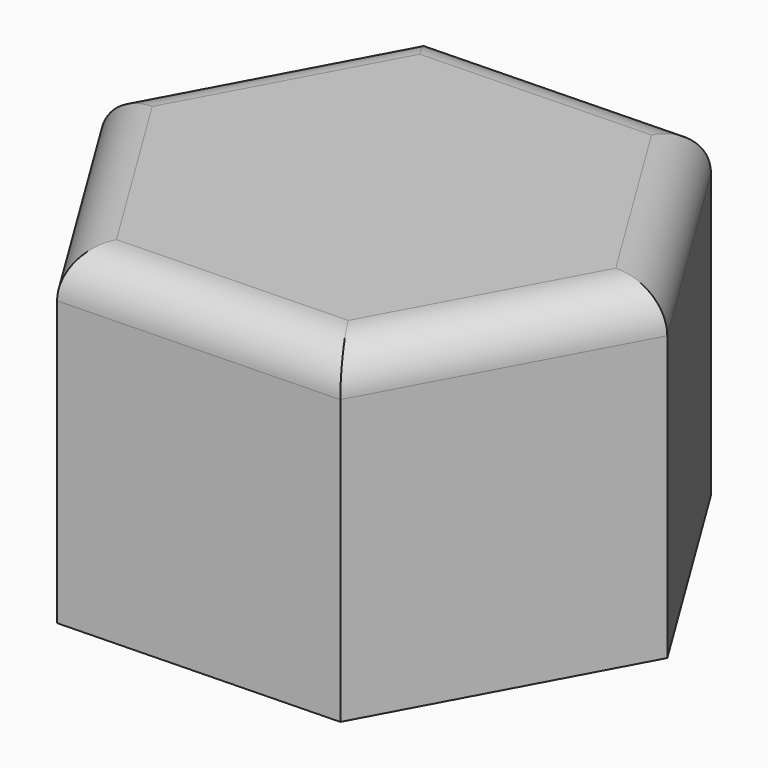
from build123d import *

# Parameters (mm, degrees)
F1_DEPTH = 4
F2_DEPTH = 11
F3_R     = 2
F4_R     = 1


with BuildPart() as f1:
    # F0 (on Top) → F1 (new body)
    with BuildSketch(Plane.XY):
        Polygon((-12.696786, -0.35349), (-6.042262, -11.172484), (6.654524, -10.818994), (12.696786, 0.35349), (6.042262, 11.172484), (-6.654524, 10.818994), align=None)
        Polygon((-4.669021, -8.633283), (-9.811153, -0.273151), (-5.142132, 8.360132), (4.669021, 8.633283), (9.811153, 0.273151), (5.142132, -8.360132), align=None, mode=Mode.SUBTRACT)
        Polygon((-5.142132, 8.360132), (-9.811153, -0.273151), (-4.669021, -8.633283), (5.142132, -8.360132), (9.811153, 0.273151), (4.669021, 8.633283), align=None)
    extrude(amount=F1_DEPTH)

    # F0 (on Top) → F2 (join)
    with BuildSketch(Plane.XY):
        Polygon((-12.696786, -0.35349), (-6.042262, -11.172484), (6.654524, -10.818994), (12.696786, 0.35349), (6.042262, 11.172484), (-6.654524, 10.818994), align=None)
        Polygon((-4.669021, -8.633283), (-9.811153, -0.273151), (-5.142132, 8.360132), (4.669021, 8.633283), (9.811153, 0.273151), (5.142132, -8.360132), align=None, mode=Mode.SUBTRACT)
    extrude(amount=-F2_DEPTH)

    # F3
    f3_edges = [f1.edges().sort_by_distance(p)[0] for p in [
        (-0.306131, 10.995739, 4),
        (-9.675655, 5.232752, 4),
        (-9.369524, -5.762987, 4),
        (0.306131, -10.995739, 4),
        (9.675655, -5.232752, 4),
        (9.369524, 5.762987, 4),
    ]]
    fillet(f3_edges, radius=F3_R)

    # F4
    f4_edges = [f1.edges().sort_by_distance(p)[0] for p in [
        (-0.236556, 8.496708, -11),
        (-7.476643, 4.04349, -11),
        (-7.240087, -4.453217, -11),
        (0.236556, -8.496708, -11),
        (7.476643, -4.04349, -11),
        (7.240087, 4.453217, -11),
    ]]
    fillet(f4_edges, radius=F4_R)


solid = f1.part
